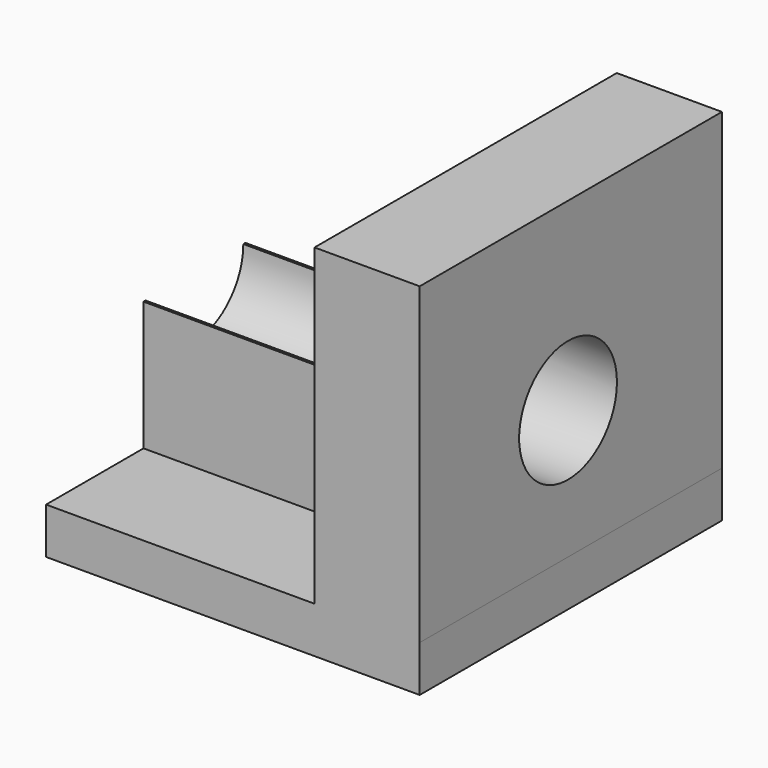
from build123d import *

# Parameters (mm, degrees)
F0_W     = 41.147999
F0_H     = 41.605201
F1_DEPTH = 5.08
F2_W     = 11.5824
F2_H     = 41.605201
F3_DEPTH = 34.544
F4_W     = 29.565599
F4_H     = 14.0208
F5_DEPTH = 14.224
F7_D     = 13.462


with BuildPart() as f1:
    # F0 (on Top) → F1 (new body)
    with BuildSketch(Plane.XY):
        with Locations((-20.573999, 20.802601)):
            Rectangle(F0_W, F0_H)
    extrude(amount=F1_DEPTH)

    # F2 (on face) → F3 (join)
    with BuildSketch(Plane.XY.offset(5.08)):
        with Locations((-5.7912, 20.802601)):
            Rectangle(F2_W, F2_H)
    extrude(amount=F3_DEPTH)

    # F4 (on face) → F5 (join)
    with BuildSketch(Plane.XY.offset(5.08)):
        with Locations((-26.365199, 20.4216)):
            Rectangle(F4_W, F4_H)
    extrude(amount=F5_DEPTH)

    # F7 (through all)
    with Locations(Plane(origin=(-41.147999, 0, 0), x_dir=(0, -1, 0), z_dir=(-1, 0, 0))):
        with Locations((-20.4216, 19.304)):
            Hole(F7_D / 2)


solid = f1.part
